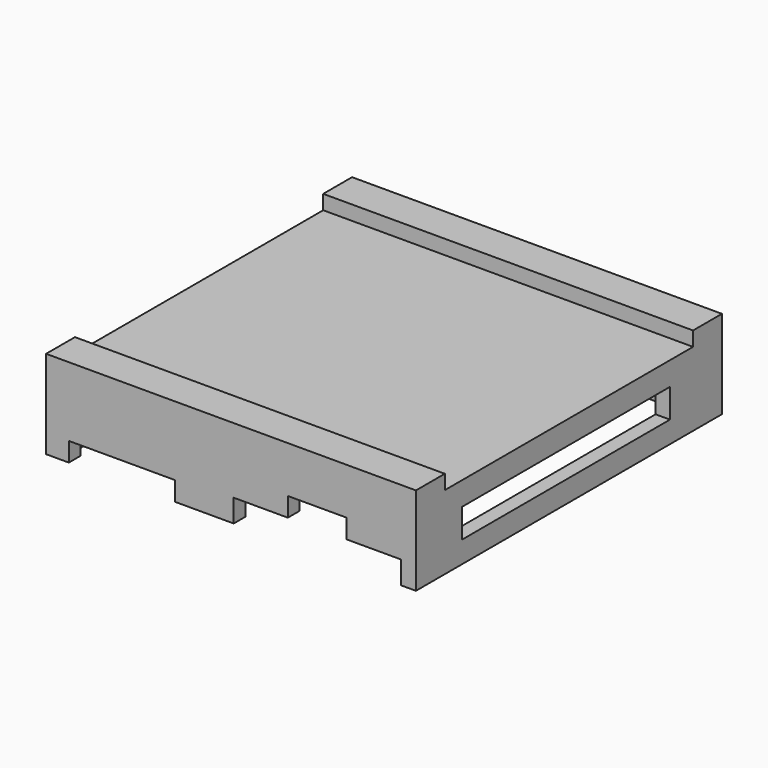
from build123d import *

# Parameters (mm, degrees)
SKETCH035_W      = 36
SKETCH035_H      = 4
EXTRUDE033_DEPTH = 2
SKETCH029_W      = 51.25
SKETCH029_H      = 5
EXTRUDE027_DEPTH = 2
SKETCH017_W      = 8.15
SKETCH017_H      = 2.65
EXTRUDE013_DEPTH = 2
SKETCH010_W      = 14.7
SKETCH010_H      = 2.65
SKETCH010_W_2    = 23.15
SKETCH010_H_2    = 3.15
EXTRUDE006_DEPTH = 2
SKETCH_R         = 1.65
EXTRUDE026_DEPTH = 5
SKETCH009_W      = 51.25
SKETCH009_H      = 53
SKETCH009_W_2    = 47.25
SKETCH009_H_2    = 49
EXTRUDE004_DEPTH = 10.25
SKETCH008_W      = 51.25
SKETCH008_H      = 53
EXTRUDE003_DEPTH = 2
SKETCH028_W      = 5
SKETCH028_H      = 5
EXTRUDE025_DEPTH = 5
SKETCH012_R      = 3
EXTRUDE008_DEPTH = 5


with BuildPart() as topcut002:
    # Sketch035 → Extrude033 (new body)
    with BuildSketch(Plane.YZ.offset(49.25)):
        with Locations((26, 7)):
            Rectangle(SKETCH035_W, SKETCH035_H)
    extrude(amount=EXTRUDE033_DEPTH)


with BuildPart() as top006:
    # Sketch029 → Extrude027 (new body)
    with BuildSketch(Plane.XY.offset(12.25)):
        with Locations((25.625, 2.5)):
            Rectangle(SKETCH029_W, SKETCH029_H)
        with Locations((25.625, 50.5)):
            Rectangle(SKETCH029_W, SKETCH029_H)
    extrude(amount=EXTRUDE027_DEPTH)


with BuildPart() as topcut001:
    # Sketch017 → Extrude013 (new body)
    with BuildSketch(Plane.XZ):
        with Locations((37.575, 6.475)):
            Rectangle(SKETCH017_W, SKETCH017_H)
    extrude(amount=-EXTRUDE013_DEPTH)


with BuildPart() as topcuts:
    # Sketch010 → Extrude006 (new body)
    with BuildSketch(Plane.XZ):
        with Locations((10.5, 3.325)):
            Rectangle(SKETCH010_W, SKETCH010_H)
        with Locations((37.575, 3.575)):
            Rectangle(SKETCH010_W_2, SKETCH010_H_2)
    extrude(amount=-EXTRUDE006_DEPTH)


with BuildPart() as topcuts001:
    # Sketch → Extrude026 (new body)
    with BuildSketch(Plane.XY.offset(10.25)):
        with Locations((22.75, 26.5)):
            Circle(SKETCH_R)
    extrude(amount=-EXTRUDE026_DEPTH)

    # Fusion007: union topCut001, topCuts
    add(topcut001.part)
    add(topcuts.part)


with BuildPart() as top:
    # Sketch009 → Extrude004 (new body)
    with BuildSketch(Plane.XY):
        with Locations((25.625, 26.5)):
            Rectangle(SKETCH009_W, SKETCH009_H)
        with Locations((25.625, 26.5)):
            Rectangle(SKETCH009_W_2, SKETCH009_H_2, mode=Mode.SUBTRACT)
    extrude(amount=EXTRUDE004_DEPTH)


with BuildPart() as top_1:
    # Extrude004 placement: moved
    add(top.part.moved(Location((0, 0, 2))))


with BuildPart() as top002:
    # Sketch008 → Extrude003 (new body)
    with BuildSketch(Plane.XY):
        with Locations((25.625, 26.5)):
            Rectangle(SKETCH008_W, SKETCH008_H)
    extrude(amount=EXTRUDE003_DEPTH)


with BuildPart() as top002_1:
    # Extrude003 placement: moved
    add(top002.part.moved(Location((0, 0, 10.25))))

    # Fusion: union top
    add(top_1.part)


with BuildPart() as topaddons:
    # Sketch028 → Extrude025 (new body)
    with BuildSketch(Plane.XY.offset(10.25)):
        with Locations((28.65, 48.5)):
            Rectangle(SKETCH028_W, SKETCH028_H)
        with Locations((46.75, 48.5)):
            Rectangle(SKETCH028_W, SKETCH028_H)
    extrude(amount=-EXTRUDE025_DEPTH)


with BuildPart() as top008:
    # Sketch012 → Extrude008 (new body)
    with BuildSketch(Plane.XY.offset(10.25)):
        with Locations((22.75, 26.5)):
            Circle(SKETCH012_R)
    extrude(amount=-EXTRUDE008_DEPTH)

    # Fusion005: union top002, topAddOns
    add(top002_1.part)
    add(topaddons.part)

    # Cut: cut topCuts001
    add(topcuts001.part, mode=Mode.SUBTRACT)

    # Fusion008: union top006
    add(top006.part)

    # Cut004: cut topCut002
    add(topcut002.part, mode=Mode.SUBTRACT)


solid = top008.part
